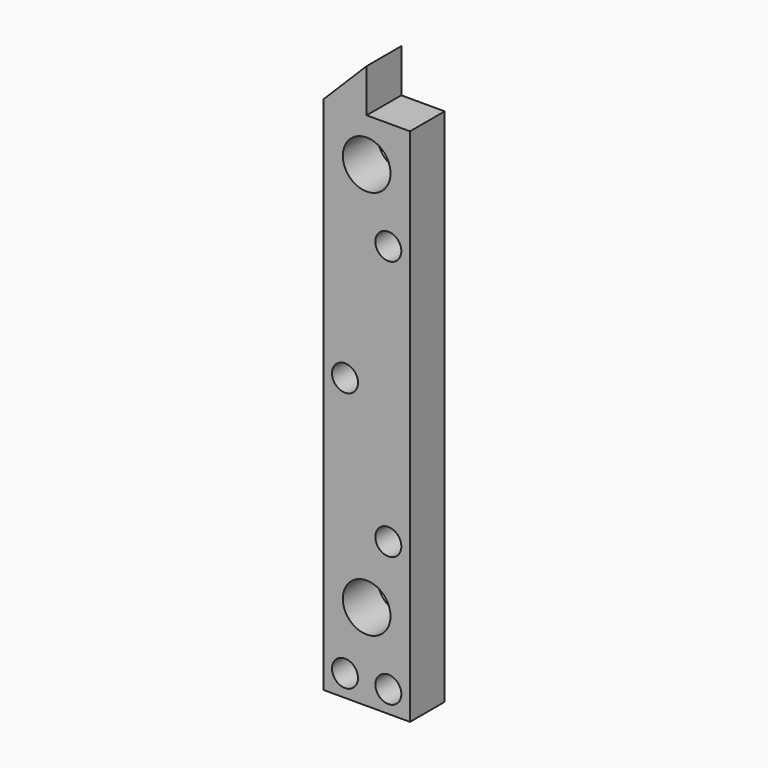
from build123d import *

# Parameters (mm, degrees)
F0_R     = 1.5
F0_R_2   = 2.75
F1_DEPTH = 5


with BuildPart() as f1:
    # F0 (on Front) → F1 (new body)
    with BuildSketch(Plane.XZ):
        Polygon((-5, 27.5), (-5, -32.5), (5, -32.5), (5, 27.5), (0, 27.5), (0, 32.5), align=None)
        with Locations((-2.5, -30)):
            Circle(F0_R, mode=Mode.SUBTRACT)
        with Locations((0, -22.5)):
            Circle(F0_R_2, mode=Mode.SUBTRACT)
        with Locations((2.5, -30)):
            Circle(F0_R, mode=Mode.SUBTRACT)
        with Locations((2.5, -15)):
            Circle(F0_R, mode=Mode.SUBTRACT)
        with Locations((-2.5, 0)):
            Circle(F0_R, mode=Mode.SUBTRACT)
        with Locations((2.5, 15)):
            Circle(F0_R, mode=Mode.SUBTRACT)
        with Locations((0, 22.5)):
            Circle(F0_R_2, mode=Mode.SUBTRACT)
    extrude(amount=F1_DEPTH)


solid = f1.part
